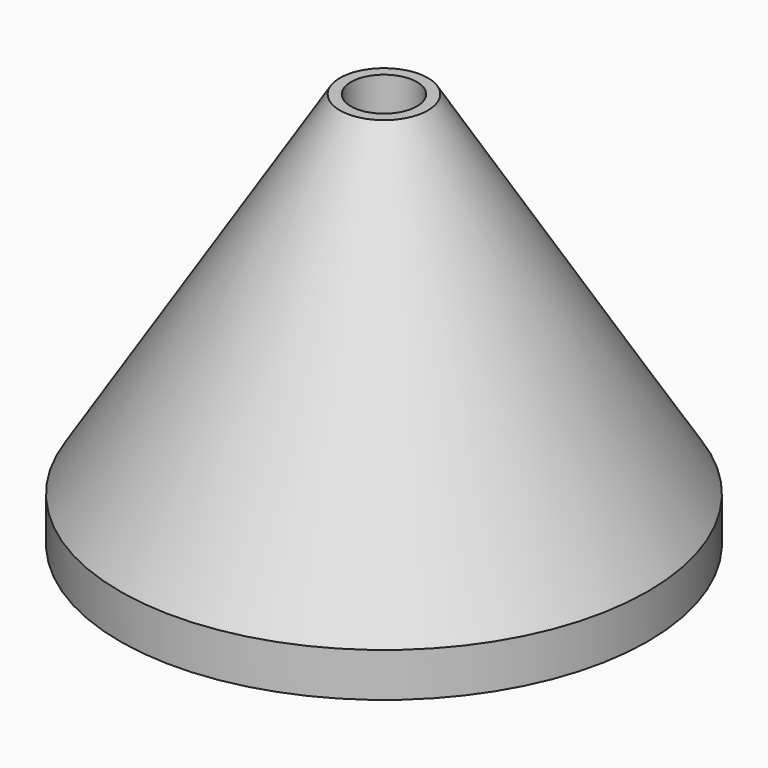
from build123d import *

# Parameters (mm, degrees)
F0_R     = 38.1
F0_R_2   = 4.7625
F1_DEPTH = 57.15
F2_SIZE2 = 50.8
F2_SIZE  = 31.75
F4_R     = 19.05
F5_DEPTH = 6.35


with BuildPart() as f1:
    # F0 (on Top) → F1 (new body)
    with BuildSketch(Plane.XY):
        Circle(F0_R)
        Circle(F0_R_2, mode=Mode.SUBTRACT)
    extrude(amount=F1_DEPTH)

    # F2
    f2_edges = [f1.edges().sort_by_distance(p)[0] for p in [
        (-38.1, 0, 57.15),
    ]]
    f2_side = f1.faces().sort_by_distance((-37.022369, 0, 57.15))[0]
    chamfer(f2_edges, length=F2_SIZE, length2=F2_SIZE2, reference=f2_side)

    # F4 (on face) → F5 (cut)
    with BuildSketch(Plane(origin=(0, 0, 0), x_dir=(1, 0, 0), z_dir=(0, 0, -1))):
        Circle(F4_R)
    extrude(amount=-F5_DEPTH, mode=Mode.SUBTRACT)


solid = f1.part
